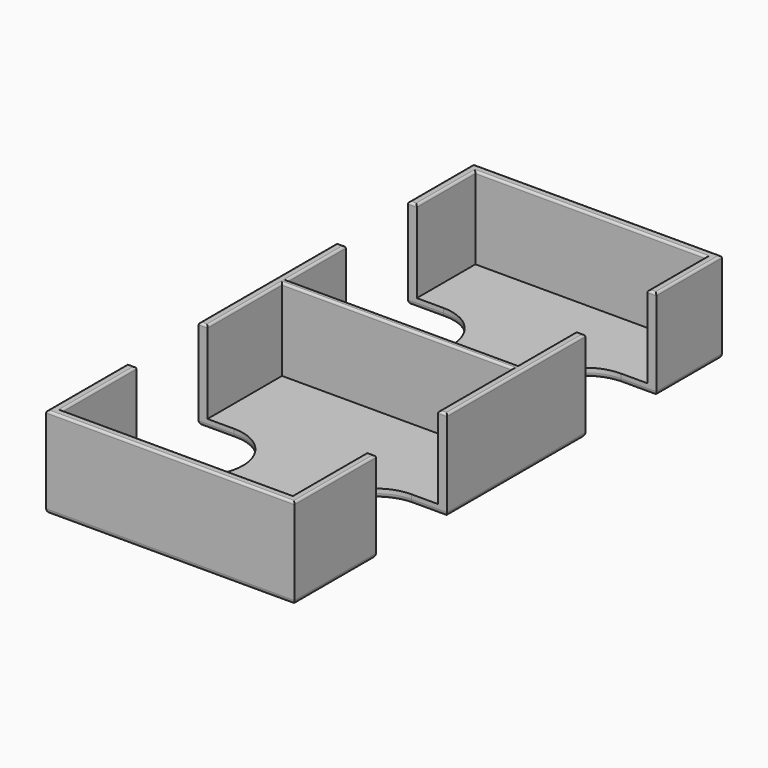
from build123d import *

# Parameters (mm, degrees)
SKETCH009_W     = 56
SKETCH009_H     = 120.5
PAD004_DEPTH    = 20.5
SKETCH010_W     = 52
SKETCH010_H     = 53
SKETCH010_H_2   = 62
POCKET005_DEPTH = 18.5
POCKET006_DEPTH = 289.39875
FILLET005_R     = 1
FILLET006_R     = 0.5


with BuildPart() as part:
    # Sketch009 → Pad004 (new body)
    with BuildSketch(Plane.XY):
        Rectangle(SKETCH009_W, SKETCH009_H)
    extrude(amount=PAD004_DEPTH)

    # Sketch010 (on DatumPlane) → Pocket005 (cut)
    with BuildSketch(Plane(origin=(0, 4.5, 20.5), x_dir=(1, 0, 0), z_dir=(0, 0, 1))):
        with Locations((0, 27.25)):
            Rectangle(SKETCH010_W, SKETCH010_H)
        with Locations((0, -31.75)):
            Rectangle(SKETCH010_W, SKETCH010_H_2)
    extrude(amount=-POCKET005_DEPTH, mode=Mode.SUBTRACT)

    # Sketch011 (on DatumPlane) → Pocket006 (cut, through all)
    with BuildSketch(Plane(origin=(20, 0, 20.5), x_dir=(1, 0, 0), z_dir=(0, 0, 1))):
        with BuildLine():
            Line((0, 41.75), (30, 41.75))
            Line((30, 41.75), (30, 21.75))
            Line((30, 21.75), (0, 21.75))
            ThreePointArc((0, 41.75), (-10, 31.75), (0, 21.75))
        make_face()
        with BuildLine():
            Line((0, -17.25), (30, -17.25))
            Line((30, -17.25), (30, -37.25))
            Line((30, -37.25), (0, -37.25))
            ThreePointArc((0, -17.25), (-10, -27.25), (0, -37.25))
        make_face()
    pocket006 = extrude(amount=-POCKET006_DEPTH, mode=Mode.SUBTRACT)

    # Mirrored003: Pocket006 across YZ
    add(pocket006.mirror(Plane.YZ), mode=Mode.SUBTRACT)

    # Fillet005
    fillet005_edges = [part.edges().sort_by_distance(p)[0] for p in [
        (0, 60.25, 0),
        (28, 51, 0),
        (24, 41.75, 0),
        (10, 31.75, 0),
        (24, 21.75, 0),
        (28, 2.25, 0),
        (24, -17.25, 0),
        (10, -27.25, 0),
        (24, -37.25, 0),
        (28, -48.75, 0),
        (0, -60.25, 0),
        (-28, -48.75, 0),
        (-24, -37.25, 0),
        (-10, -27.25, 0),
        (-24, -17.25, 0),
        (-28, 2.25, 0),
        (-24, 21.75, 0),
        (-10, 31.75, 0),
        (-24, 41.75, 0),
        (-28, 51, 0),
    ]]
    fillet(fillet005_edges, radius=FILLET005_R)

    # Fillet006
    fillet006_edges = [part.edges().sort_by_distance(p)[0] for p in [
        (0, 60.25, 20.5),
        (28, 51, 20.5),
        (27, 41.75, 20.5),
        (26, 50, 20.5),
        (0, 58.25, 20.5),
        (-26, 50, 20.5),
        (-27, 41.75, 20.5),
        (-28, 51, 20.5),
        (-27, 21.75, 20.5),
        (-26, 13.5, 20.5),
        (0, 5.25, 20.5),
        (26, 13.5, 20.5),
        (27, 21.75, 20.5),
        (28, 2.25, 20.5),
        (27, -17.25, 20.5),
        (26, -6.75, 20.5),
        (0, 3.75, 20.5),
        (-26, -6.75, 20.5),
        (-27, -17.25, 20.5),
        (-28, 2.25, 20.5),
        (-27, -37.25, 20.5),
        (-26, -47.75, 20.5),
        (0, -58.25, 20.5),
        (26, -47.75, 20.5),
        (27, -37.25, 20.5),
        (28, -48.75, 20.5),
        (0, -60.25, 20.5),
        (-28, -48.75, 20.5),
    ]]
    fillet(fillet006_edges, radius=FILLET006_R)


with BuildPart() as part_1:
    # Body003 placement: moved
    add(part.part.moved(Location((-67, 84, 14))))


solid = part_1.part
